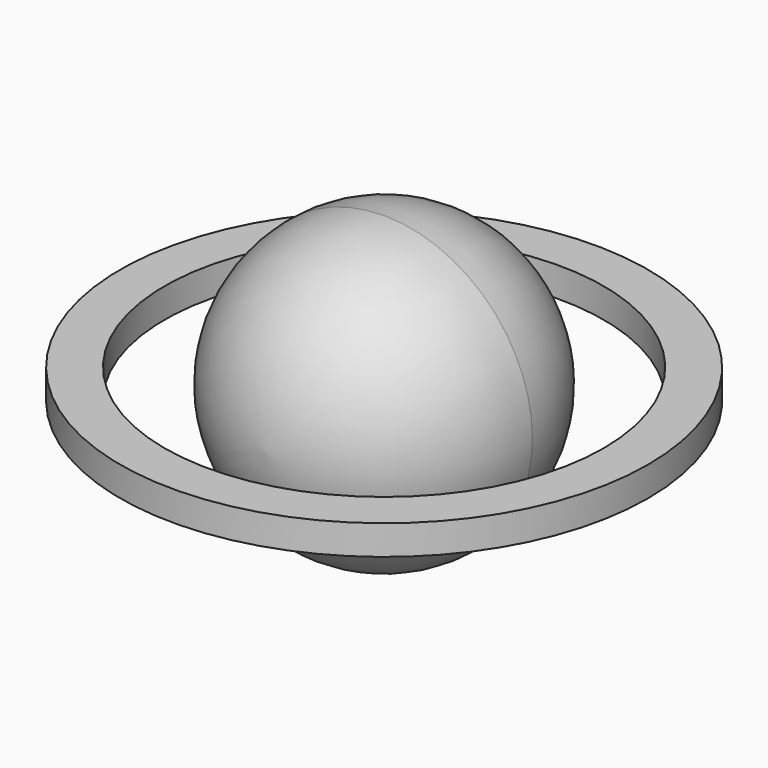
from build123d import *

# Parameters (mm, degrees)
F0_R     = 31.75
F1_DEPTH = 31.75
F2_R     = 31.711178
F3_R     = 31.731119
F4_R     = 56.508891
F4_R_2   = 47.000026
F5_DEPTH = 3.175


with BuildPart() as f1:
    # F0 (on Front) → F1 (new body, symmetric)
    with BuildSketch(Plane.XZ):
        Circle(F0_R)
    extrude(amount=F1_DEPTH, both=True)

    # F2
    f2_edges = [f1.edges().sort_by_distance(p)[0] for p in [
        (-31.75, -31.75, 0),
    ]]
    fillet(f2_edges, radius=F2_R)

    # F3
    f3_edges = [f1.edges().sort_by_distance(p)[0] for p in [
        (-31.75, 31.75, 0),
    ]]
    fillet(f3_edges, radius=F3_R)


with BuildPart() as f5:
    # F4 (on Top) → F5 (new body, symmetric)
    with BuildSketch(Plane.XY):
        Circle(F4_R)
        Circle(F4_R_2, mode=Mode.SUBTRACT)
    extrude(amount=F5_DEPTH, both=True)


solid = Compound([f1.part, f5.part])
